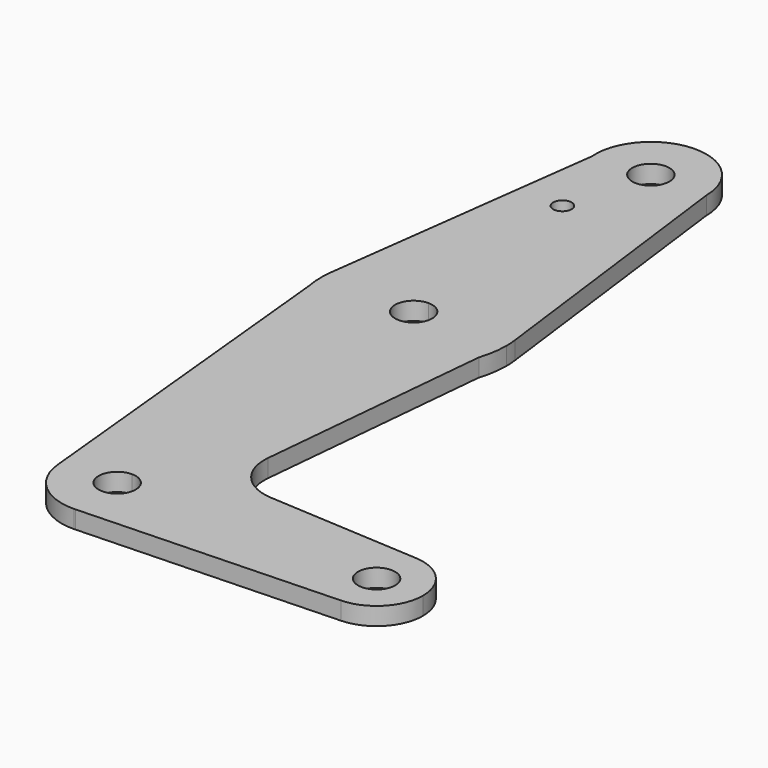
from build123d import *

# Parameters (mm, degrees)
F0_R     = 3.175
F0_R_2   = 1.5875
F1_DEPTH = 3.048


with BuildPart() as f1:
    # F0 (on Top) → F1 (new body)
    with BuildSketch(Plane.XY):
        with BuildLine():
            ThreePointArc((68.088984, -20.269671), (65.92849, -14.826317), (60.62313, -12.346196))
            ThreePointArc((60.62313, -12.346196), (52.214543, -20.175424), (60.434849, -28.202112))
            ThreePointArc((60.434849, -28.202112), (65.86345, -25.781236), (68.088984, -20.269671))
        make_face()
        with Locations((60.151484, -20.269671)):
            Circle(F0_R, mode=Mode.SUBTRACT)
        with BuildLine():
            ThreePointArc((15.701484, 27.355329), (5.578357, 31.001758), (0.105721, 40.265905))
            Line((0.105721, 40.265905), (6.223293, -21.212819))
            ThreePointArc((6.223293, -21.212819), (8.640708, -13.876623), (15.701484, -10.744671))
            Line((15.701484, -10.744671), (15.701484, 27.355329))
        make_face()
        with BuildLine():
            Line((26.982569, -2.103888), (30.79551, 38.312402))
            ThreePointArc((30.79551, 38.312402), (25.027349, 30.383389), (15.701484, 27.355329))
            Line((15.701484, 27.355329), (15.701484, -10.744671))
            ThreePointArc((15.701484, -10.744671), (22.436676, -13.534479), (25.226484, -20.269671))
            ThreePointArc((25.226484, -20.269671), (22.594508, -26.843243), (16.153131, -29.783958))
            Line((16.153131, -29.783958), (60.434849, -28.202112))
            ThreePointArc((60.434849, -28.202112), (52.214543, -20.175424), (60.62313, -12.346196))
            Line((60.62313, -12.346196), (34.425222, -10.786761))
            ThreePointArc((34.425222, -10.786761), (28.861447, -8.024606), (26.982569, -2.103888))
        make_face()
        with BuildLine():
            Line((30.79551, 38.312402), (31.448941, 45.238618))
            ThreePointArc((31.448941, 45.238618), (26.192767, 55.144547), (15.701484, 59.105329))
            Line((15.701484, 59.105329), (15.701484, 46.405329))
            ThreePointArc((15.701484, 46.405329), (17.946548, 45.475393), (18.876484, 43.230329))
            ThreePointArc((18.876484, 43.230329), (17.946548, 40.985265), (15.701484, 40.055329))
            Line((15.701484, 40.055329), (15.701484, 27.355329))
            ThreePointArc((15.701484, 27.355329), (25.027349, 30.383389), (30.79551, 38.312402))
        make_face()
        with BuildLine():
            ThreePointArc((15.701484, 59.105329), (5.226812, 55.159154), (-0.040315, 45.282494))
            ThreePointArc((-0.040315, 45.282494), (-0.166794, 42.768392), (0.105721, 40.265905))
            ThreePointArc((0.105721, 40.265905), (5.578357, 31.001758), (15.701484, 27.355329))
            Line((15.701484, 27.355329), (15.701484, 40.055329))
            ThreePointArc((15.701484, 40.055329), (12.526484, 43.230329), (15.701484, 46.405329))
            Line((15.701484, 46.405329), (15.701484, 59.105329))
        make_face()
        with BuildLine():
            ThreePointArc((15.701484, -10.744671), (8.640708, -13.876623), (6.223293, -21.212819))
            ThreePointArc((6.223293, -21.212819), (9.39355, -27.406589), (15.929867, -29.791933))
            Line((15.929867, -29.791933), (16.153131, -29.783958))
            ThreePointArc((16.153131, -29.783958), (22.594508, -26.843243), (25.226484, -20.269671))
            ThreePointArc((25.226484, -20.269671), (22.436676, -13.534479), (15.701484, -10.744671))
        make_face()
        with BuildLine():
            ThreePointArc((18.876484, -20.269671), (13.45642, -22.514735), (15.701484, -17.094671))
            ThreePointArc((15.701484, -17.094671), (17.946548, -18.024607), (18.876484, -20.269671))
        make_face(mode=Mode.SUBTRACT)
        with BuildLine():
            Line((31.448941, 45.238618), (25.226484, 94.030329))
            ThreePointArc((25.226484, 94.030329), (22.436676, 87.295136), (15.701484, 84.505329))
            Line((15.701484, 84.505329), (15.701484, 59.105329))
            ThreePointArc((15.701484, 59.105329), (26.192767, 55.144547), (31.448941, 45.238618))
        make_face()
        with BuildLine():
            ThreePointArc((15.701484, 84.505329), (22.436676, 87.295136), (25.226484, 94.030329))
            ThreePointArc((25.226484, 94.030329), (15.300614, 103.546889), (6.210226, 93.2293))
            ThreePointArc((6.210226, 93.2293), (9.255717, 87.017646), (15.701484, 84.505329))
        make_face()
        with BuildLine():
            ThreePointArc((18.876484, 94.030329), (17.946548, 91.785265), (15.701484, 90.855329))
            ThreePointArc((15.701484, 90.855329), (13.45642, 96.275393), (18.876484, 94.030329))
        make_face(mode=Mode.SUBTRACT)
        with BuildLine():
            ThreePointArc((15.701484, -10.744671), (8.640708, -13.876623), (6.223293, -21.212819))
            ThreePointArc((6.223293, -21.212819), (9.39355, -27.406589), (15.929867, -29.791933))
            Line((15.929867, -29.791933), (16.153131, -29.783958))
            ThreePointArc((16.153131, -29.783958), (22.594508, -26.843243), (25.226484, -20.269671))
            ThreePointArc((25.226484, -20.269671), (22.436676, -13.534479), (15.701484, -10.744671))
        make_face()
        with BuildLine():
            ThreePointArc((18.876484, -20.269671), (13.45642, -22.514735), (15.701484, -17.094671))
            ThreePointArc((15.701484, -17.094671), (17.946548, -18.024607), (18.876484, -20.269671))
        make_face(mode=Mode.SUBTRACT)
        with BuildLine():
            ThreePointArc((31.576484, 43.230329), (31.544566, 44.236496), (31.448941, 45.238618))
            Line((31.448941, 45.238618), (30.79551, 38.312402))
            ThreePointArc((30.79551, 38.312402), (31.380025, 40.740553), (31.576484, 43.230329))
        make_face()
        with BuildLine():
            ThreePointArc((15.701484, 84.505329), (9.255717, 87.017646), (6.210226, 93.2293))
            Line((6.210226, 93.2293), (-0.040315, 45.282494))
            ThreePointArc((-0.040315, 45.282494), (5.226812, 55.159154), (15.701484, 59.105329))
            Line((15.701484, 59.105329), (15.701484, 84.505329))
        make_face()
        with Locations((12.087857, 79.599068)):
            Circle(F0_R_2, mode=Mode.SUBTRACT)
    extrude(amount=-F1_DEPTH)


solid = f1.part
